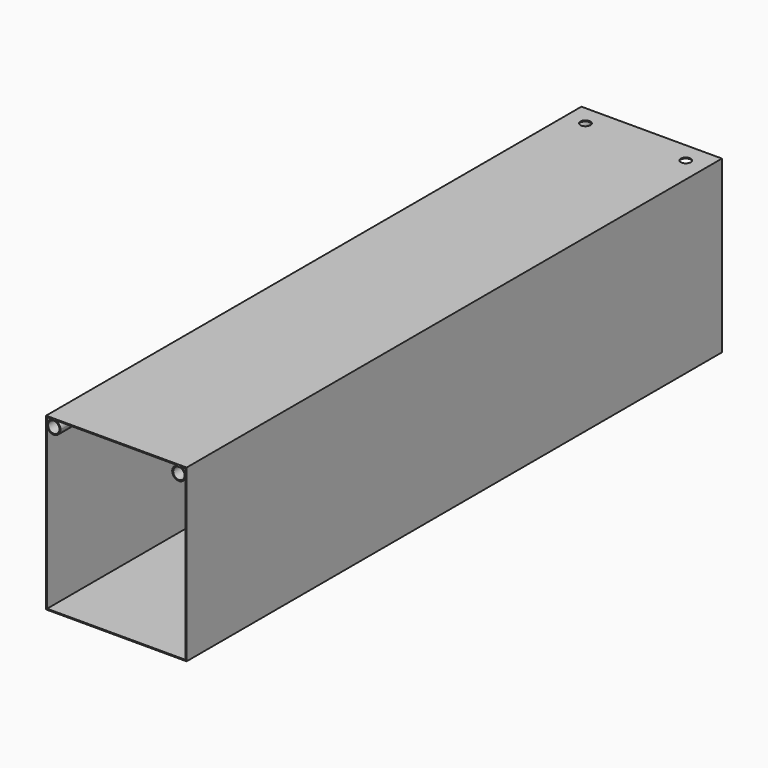
from build123d import *

# Parameters (mm, degrees)
F0_R     = 8.5
F1_DEPTH = 1000
F0_W     = 210
F0_H     = 255
F3_D     = 15


with BuildPart() as f1:
    # F0 (on Front) → F1 (new body)
    with BuildSketch(Plane.XZ):
        with BuildLine():
            ThreePointArc((-83.5, 105.0375561347), (-86.4289321881, 112.1086239466), (-93.5, 115.0375561347))
            ThreePointArc((-93.5, 115.0375561347), (-100.5710678119, 112.1086239466), (-103.5, 105.0375561347))
            ThreePointArc((-103.5, 105.0375561347), (-93.5, 95.0375561347), (-83.5, 105.0375561347))
        make_face()
        with Locations((-93.5, 105.0375561347)):
            Circle(F0_R, mode=Mode.SUBTRACT)
    extrude(amount=F1_DEPTH)


with BuildPart() as f1b:
    # F0 (on Front) → F1, piece 2 (new body)
    with BuildSketch(Plane.XZ):
        with Locations((0, -10.9624438653)):
            Rectangle(F0_W, F0_H)
        Polygon((-103.5, 105.0375561347), (-103.5, 115.0375561347), (-93.5, 115.0375561347), (93.5, 115.0375561347), (103.5, 115.0375561347), (103.5, 105.0375561347), (103.5, -136.9624438653), (-103.5, -136.9624438653), align=None, mode=Mode.SUBTRACT)
    extrude(amount=F1_DEPTH)

    # F3 (through all)
    with Locations(Plane.XY.offset(116.5375561347)):
        with Locations((75, -30), (-75, -30)):
            Hole(F3_D / 2)


with BuildPart() as f1c:
    # F0 (on Front) → F1, piece 3 (new body)
    with BuildSketch(Plane.XZ):
        with BuildLine():
            ThreePointArc((103.5, 105.0375561347), (100.5710678119, 112.1086239466), (93.5, 115.0375561347))
            ThreePointArc((93.5, 115.0375561347), (86.4289321881, 97.9664883229), (103.5, 105.0375561347))
        make_face()
        with Locations((93.5, 105.0375561347)):
            Circle(F0_R, mode=Mode.SUBTRACT)
    extrude(amount=F1_DEPTH)


solid = Compound([f1.part, f1b.part, f1c.part])
